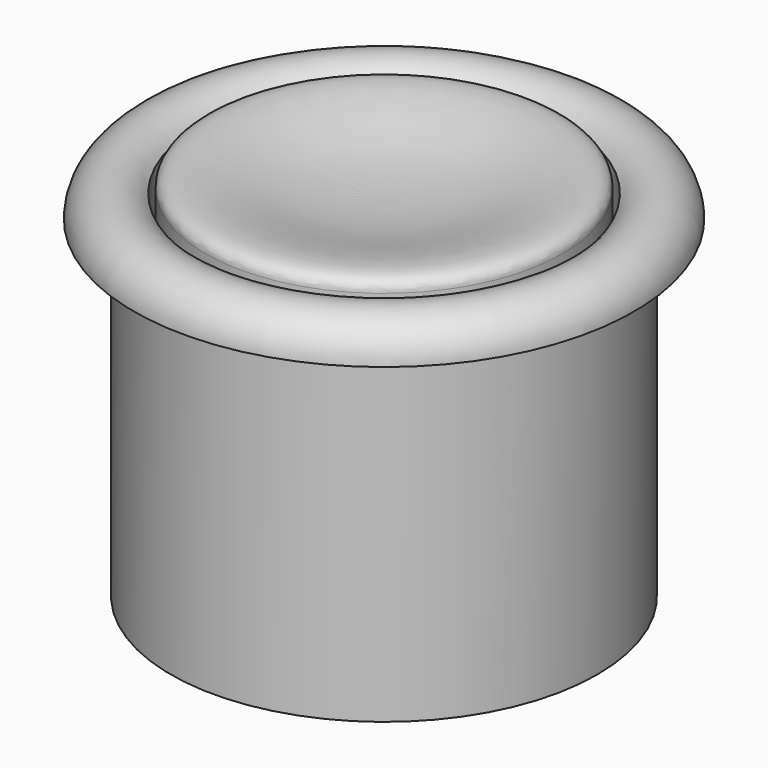
from build123d import *


with BuildPart() as f1:
    # F0 (on Front) → F1 (revolve)
    with BuildSketch(Plane.XZ):
        with BuildLine():
            Line((-14.7, -2.54), (-14.7, -25.4))
            Line((-14.7, -25.4), (-12.7, -25.4))
            Line((-12.7, -25.4), (-12.7, -0.9742413979))
            ThreePointArc((-12.7, -0.9742413979), (-15.5281304245, -0.1387919707), (-17.24, -2.54))
            Line((-17.24, -2.54), (-14.7, -2.54))
        make_face()
    revolve(axis=Axis((0, 0, 0), (0, 0, -1)))


with BuildPart() as f2:
    # F0 (on Front) → F2 (revolve)
    with BuildSketch(Plane.XZ):
        with BuildLine():
            add(Edge.make_bspline(
                [(-12.3, -0.640504579), (-12.3, 0.5385344325), (-7.4030678148, -0.0375770975), (-4.8243983329, -1.27), (0, -1.27)],
                knots=[0, 0, 0, 0, 0.3835795443, 1, 1, 1, 1], degree=3))
            Line((-12.3, -0.640504579), (-12.3, -6.35))
            Line((-12.3, -6.35), (0, -6.35))
            Line((0, -6.35), (0, -1.27))
        make_face()
    revolve(axis=Axis((0, 0, 0), (0, 0, -1)))


solid = Compound([f1.part, f2.part])
